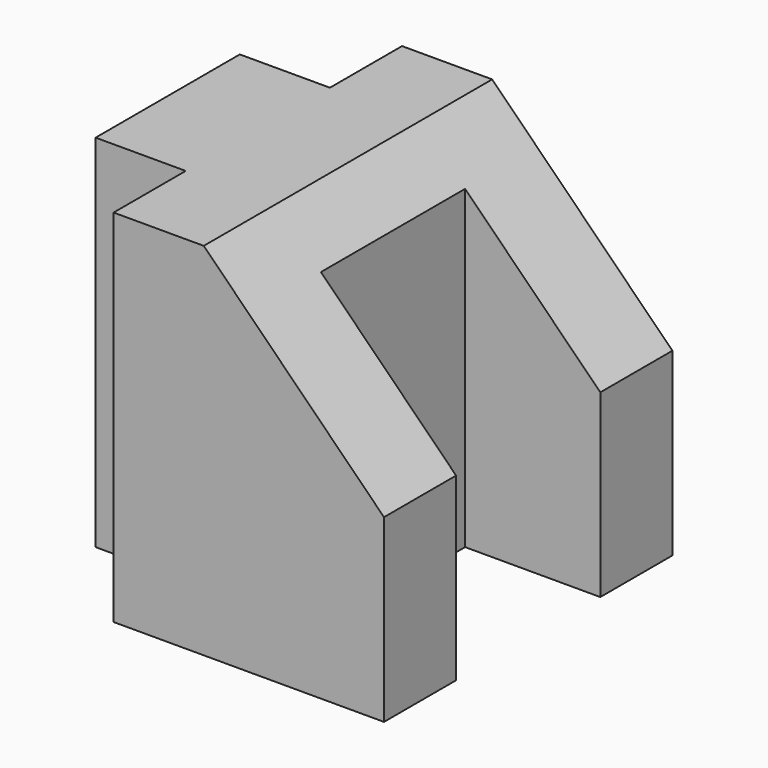
from build123d import *

# Parameters (mm, degrees)
F1_DEPTH = 50.8
F3_DEPTH = 50.801
F4_W     = 19.05
F4_H     = 25.4
F5_DEPTH = 50.801


with BuildPart() as f1:
    # F0 (on Top) → F1 (new body)
    with BuildSketch(Plane.XY):
        Polygon((-38.1, 0), (0, 0), (0, 12.7), (0, 38.1), (0, 50.8), (-38.1, 50.8), (-38.1, 38.1), (-50.8, 38.1), (-50.8, 12.7), (-38.1, 12.7), align=None)
    extrude(amount=F1_DEPTH)

    # F2 (on face) → F3 (cut, through all)
    with BuildSketch(Plane.XZ):
        Polygon((0, 50.8), (-25.4, 50.8), (0, 25.4), align=None)
    extrude(amount=-F3_DEPTH, mode=Mode.SUBTRACT)

    # F4 (on face) → F5 (cut, through all)
    with BuildSketch(Plane.XY.offset(50.8)):
        with Locations((-9.525, 25.4)):
            Rectangle(F4_W, F4_H)
    extrude(amount=-F5_DEPTH, mode=Mode.SUBTRACT)


solid = f1.part
